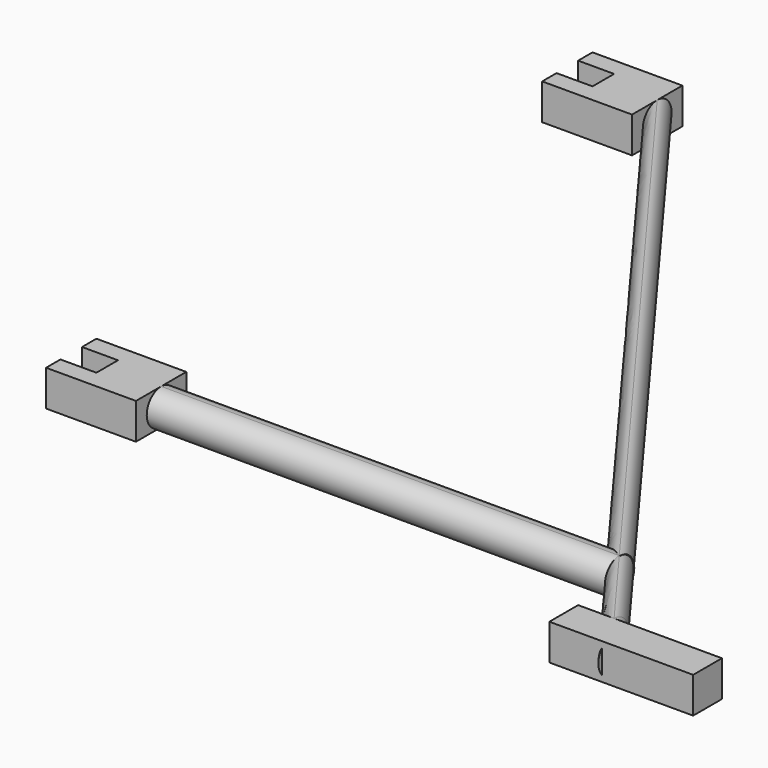
from build123d import *

# Parameters (mm, degrees)
F1_DEPTH = 2
F0_W     = 8
F0_H     = 2
F3_DEPTH = 2


with BuildPart() as f1:
    # F0 (on Top) → F1 (new body)
    with BuildSketch(Plane.XY):
        Polygon((19.1500553724, 54.7478544891), (14.1500553724, 54.7478544891), (14.1500553724, 53.7478544891), (16.1500553724, 53.7478544891), (16.1500553724, 52.2478544891), (14.1500553724, 52.2478544891), (14.1500553724, 51.2478544891), (19.1500553724, 51.2478544891), align=None)
    extrude(amount=F1_DEPTH)

    # F0 (on Top) → F3 (join)
    with BuildSketch(Plane.XY):
        Polygon((19.1500553724, 54.7478544891), (14.1500553724, 54.7478544891), (14.1500553724, 53.7478544891), (16.1500553724, 53.7478544891), (16.1500553724, 52.2478544891), (14.1500553724, 52.2478544891), (14.1500553724, 51.2478544891), (19.1500553724, 51.2478544891), align=None)
    extrude(amount=F3_DEPTH)



with BuildPart() as f1b:
    # F0 (on Top) → F1, piece 2 (new body)
    with BuildSketch(Plane.XY):
        Polygon((14.1500553724, 16.7478544891), (19.1500553724, 16.7478544891), (19.1500553724, 20.2478544891), (14.1500553724, 20.2478544891), (14.1500553724, 19.2478544891), (16.1500553724, 19.2478544891), (16.1500553724, 17.7478544891), (14.1500553724, 17.7478544891), align=None)
    extrude(amount=F1_DEPTH)

    # F0 (on Top) → F3, piece 2 (join)
    with BuildSketch(Plane.XY):
        Polygon((14.1500553724, 16.7478544891), (19.1500553724, 16.7478544891), (19.1500553724, 20.2478544891), (14.1500553724, 20.2478544891), (14.1500553724, 19.2478544891), (16.1500553724, 19.2478544891), (16.1500553724, 17.7478544891), (14.1500553724, 17.7478544891), align=None)
    extrude(amount=F3_DEPTH)


with BuildPart() as f1c:
    # F0 (on Top) → F1, piece 3 (new body)
    with BuildSketch(Plane.XY):
        with Locations((50.1500553724, 12.7478544891)):
            Rectangle(F0_W, F0_H)
    extrude(amount=F1_DEPTH)

    # F0 (on Top) → F3, piece 3 (join)
    with BuildSketch(Plane.XY):
        with Locations((50.1500553724, 12.7478544891)):
            Rectangle(F0_W, F0_H)
    extrude(amount=F3_DEPTH)


with BuildPart() as f1_1:
    add(f1.part)

    add(f1c.part)  # F8 merges F1c
    # F8: sweep along a path in F7
    with BuildLine(Plane.XY.offset(1)) as f8_path:
        Line((19.1500553724, 52.9978544891), (48.1500553724, 13.7478544891))
        Line((48.1500553724, 13.7478544891), (48.6178682598, 13.1146939432))
        Line((48.6178682598, 13.1146939432), (49.0708957451, 12.5015446744))
    # F4 (on face) → F8 (sweep)
    with BuildSketch(Plane.YZ.offset(19.1500553724)):
        with BuildLine():
            ThreePointArc((52.9978544891, 0), (53.7049612703, 0.2928932188), (53.9978544891, 1))
            ThreePointArc((53.9978544891, 1), (53.7049612703, 1.7071067812), (52.9978544891, 2))
            ThreePointArc((52.9978544891, 2), (51.9978544891, 1), (52.9978544891, 0))
        make_face()
    sweep(path=f8_path.line)


    add(f1b.part)  # F10 merges F1b
    # F10: sweep along a path in F9
    with BuildLine(Plane.XY.offset(1)) as f10_path:
        Line((19.1500553724, 18.4978544891), (44.6739457548, 18.4978544891))
    # F5 (on face) → F10 (sweep)
    with BuildSketch(Plane.YZ.offset(19.1500553724)):
        with BuildLine():
            ThreePointArc((18.4978544891, 0), (19.2049612703, 0.2928932188), (19.4978544891, 1))
            ThreePointArc((19.4978544891, 1), (19.2049612703, 1.7071067812), (18.4978544891, 2))
            ThreePointArc((18.4978544891, 2), (17.4978544891, 1), (18.4978544891, 0))
        make_face()
    sweep(path=f10_path.line)


solid = f1_1.part
